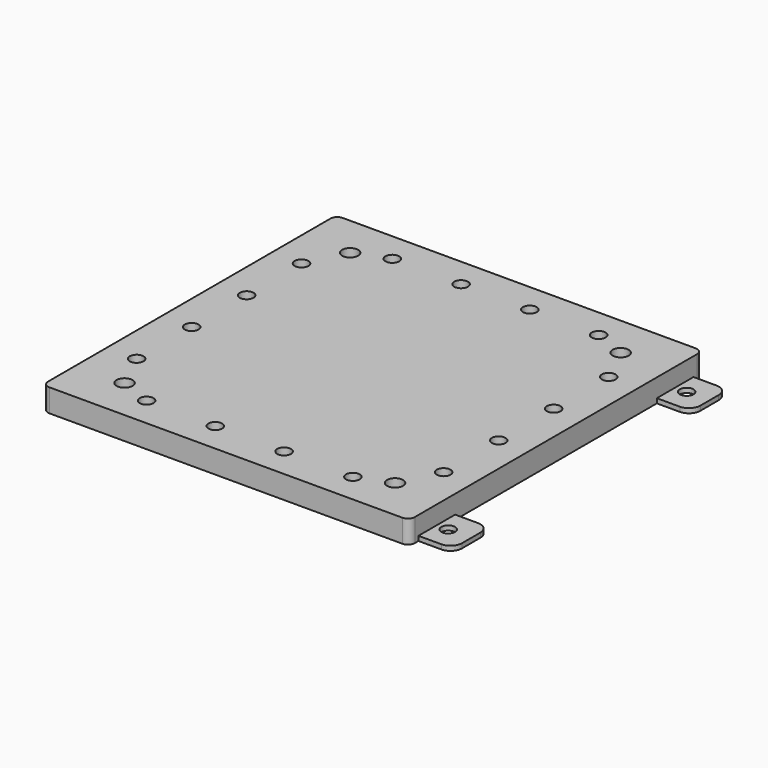
from build123d import *

# Parameters (mm, degrees)
F1_R     = 3.635317
F1_R_2   = 3
F1_R_3   = 3.701805
F1_R_4   = 3.098913
F1_R_5   = 3.218455
F2_DEPTH = 2
F0_R     = 3
F3_DEPTH = 2
F4_DEPTH = 2
F5_R     = 3.5
F5_R_2   = 3
F6_DEPTH = 10


with BuildPart() as f2:
    # F1 (on Top) → F2 (new body)
    with BuildSketch(Plane.XY):
        with BuildLine():
            Line((71.022595, 79.043965), (-58.977405, 79.043965))
            ThreePointArc((-58.977405, 79.043965), (-66.048473, 76.115033), (-68.977405, 69.043965))
            Line((-68.977405, 69.043965), (-68.977405, -60.956035))
            ThreePointArc((-68.977405, -60.956035), (-66.048473, -68.027103), (-58.977405, -70.956035))
            Line((-58.977405, -70.956035), (71.022595, -70.956035))
            ThreePointArc((71.022595, -70.956035), (78.093663, -68.027103), (81.022595, -60.956035))
            Line((81.022595, -60.956035), (81.022595, 69.043965))
            ThreePointArc((81.022595, 69.043965), (78.093663, 76.115033), (71.022595, 79.043965))
        make_face()
        with Locations((-38.977405, -62.956035)):
            Circle(F1_R, mode=Mode.SUBTRACT)
        with Locations((-60.722943, -40.956035)):
            Circle(F1_R_2, mode=Mode.SUBTRACT)
        with Locations((-8.977405, -62.956035)):
            Circle(F1_R_3, mode=Mode.SUBTRACT)
        with Locations((-60.940203, -10.956035)):
            Circle(F1_R_2, mode=Mode.SUBTRACT)
        with Locations((21.022595, -62.956035)):
            Circle(F1_R_4, mode=Mode.SUBTRACT)
        with Locations((51.022595, -62.956035)):
            Circle(F1_R_5, mode=Mode.SUBTRACT)
        with BuildLine():
            ThreePointArc((60.022595, -56.956035), (60.608381, -55.541822), (62.022595, -54.956035))
            Line((62.022595, -54.956035), (68.022595, -54.956035))
            ThreePointArc((68.022595, -54.956035), (69.436808, -55.541822), (70.022595, -56.956035))
            Line((70.022595, -56.956035), (70.022595, -57.956035))
            ThreePointArc((70.022595, -57.956035), (69.436808, -59.370249), (68.022595, -59.956035))
            Line((68.022595, -59.956035), (62.022595, -59.956035))
            ThreePointArc((62.022595, -59.956035), (60.608381, -59.370249), (60.022595, -57.956035))
            Line((60.022595, -57.956035), (60.022595, -56.956035))
        make_face(mode=Mode.SUBTRACT)
        with Locations((73.192246, -40.956035)):
            Circle(F1_R_2, mode=Mode.SUBTRACT)
        with Locations((73.022595, -10.956035)):
            Circle(F1_R_2, mode=Mode.SUBTRACT)
        with Locations((-60.940203, 19.043965)):
            Circle(F1_R_2, mode=Mode.SUBTRACT)
        with BuildLine():
            Line((55.022595, -54.956035), (-45.977405, -54.956035))
            ThreePointArc((-45.977405, -54.956035), (-47.391619, -55.541822), (-47.977405, -56.956035))
            Line((-47.977405, -56.956035), (-47.977405, -57.956035))
            ThreePointArc((-47.977405, -57.956035), (-48.563192, -59.370249), (-49.977405, -59.956035))
            Line((-49.977405, -59.956035), (-55.977405, -59.956035))
            ThreePointArc((-55.977405, -59.956035), (-57.391619, -59.370249), (-57.977405, -57.956035))
            Line((-57.977405, -57.956035), (-57.977405, -56.956035))
            ThreePointArc((-57.977405, -56.956035), (-57.391619, -55.541822), (-55.977405, -54.956035))
            Line((-55.977405, -54.956035), (-54.977405, -54.956035))
            ThreePointArc((-54.977405, -54.956035), (-53.563192, -54.370249), (-52.977405, -52.956035))
            Line((-52.977405, -52.956035), (-52.977405, 61.043965))
            ThreePointArc((-52.977405, 61.043965), (-53.563192, 62.458178), (-54.977405, 63.043965))
            Line((-54.977405, 63.043965), (-55.977405, 63.043965))
            ThreePointArc((-55.977405, 63.043965), (-57.391619, 63.629751), (-57.977405, 65.043965))
            Line((-57.977405, 65.043965), (-57.977405, 66.043965))
            ThreePointArc((-57.977405, 66.043965), (-57.391619, 67.458178), (-55.977405, 68.043965))
            Line((-55.977405, 68.043965), (-49.977405, 68.043965))
            ThreePointArc((-49.977405, 68.043965), (-48.563192, 67.458178), (-47.977405, 66.043965))
            Line((-47.977405, 66.043965), (-47.977405, 65.043965))
            ThreePointArc((-47.977405, 65.043965), (-47.391619, 63.629751), (-45.977405, 63.043965))
            Line((-45.977405, 63.043965), (55.022595, 63.043965))
            Line((55.022595, 63.043965), (55.022595, 60.043965))
            ThreePointArc((55.022595, 60.043965), (55.608381, 58.629751), (57.022595, 58.043965))
            Line((57.022595, 58.043965), (65.022595, 58.043965))
            Line((65.022595, 58.043965), (65.022595, -49.956035))
            Line((65.022595, -49.956035), (57.022595, -49.956035))
            ThreePointArc((57.022595, -49.956035), (55.608381, -50.541822), (55.022595, -51.956035))
            Line((55.022595, -51.956035), (55.022595, -54.956035))
        make_face(mode=Mode.SUBTRACT)
        with Locations((-60.940203, 49.043965)):
            Circle(F1_R_2, mode=Mode.SUBTRACT)
        with Locations((-38.977405, 71.058292)):
            Circle(F1_R_2, mode=Mode.SUBTRACT)
        with Locations((-8.977405, 71.058292)):
            Circle(F1_R_2, mode=Mode.SUBTRACT)
        with Locations((73.022595, 19.043965)):
            Circle(F1_R_2, mode=Mode.SUBTRACT)
        with Locations((21.022595, 71.058292)):
            Circle(F1_R_2, mode=Mode.SUBTRACT)
        with Locations((72.889298, 49.043965)):
            Circle(F1_R_2, mode=Mode.SUBTRACT)
        with Locations((51.022595, 71.058292)):
            Circle(F1_R_2, mode=Mode.SUBTRACT)
        with BuildLine():
            ThreePointArc((60.022595, 66.043965), (60.608381, 67.458178), (62.022595, 68.043965))
            Line((62.022595, 68.043965), (68.022595, 68.043965))
            ThreePointArc((68.022595, 68.043965), (69.436808, 67.458178), (70.022595, 66.043965))
            Line((70.022595, 66.043965), (70.022595, 65.043965))
            ThreePointArc((70.022595, 65.043965), (69.436808, 63.629751), (68.022595, 63.043965))
            Line((68.022595, 63.043965), (62.022595, 63.043965))
            ThreePointArc((62.022595, 63.043965), (60.608381, 63.629751), (60.022595, 65.043965))
            Line((60.022595, 65.043965), (60.022595, 66.043965))
        make_face(mode=Mode.SUBTRACT)
    extrude(amount=F2_DEPTH)


with BuildPart() as f3:
    # F0 (on Top) → F3 (new body)
    with BuildSketch(Plane.XY):
        with BuildLine():
            Line((81.022595, 81.043965), (-66.977405, 81.043965))
            ThreePointArc((-66.977405, 81.043965), (-68.391619, 80.458178), (-68.977405, 79.043965))
            Line((-68.977405, 79.043965), (-68.977405, -66.956035))
            ThreePointArc((-68.977405, -66.956035), (-68.391619, -68.370249), (-66.977405, -68.956035))
            Line((-66.977405, -68.956035), (81.022595, -68.956035))
            Line((81.022595, -68.956035), (81.022595, -48.956035))
            Line((81.022595, -48.956035), (81.022595, 61.043965))
            Line((81.022595, 61.043965), (81.022595, 81.043965))
        make_face()
        with BuildLine():
            ThreePointArc((-57.977405, -54.956035), (-57.391619, -53.541822), (-55.977405, -52.956035))
            Line((-55.977405, -52.956035), (-49.977405, -52.956035))
            ThreePointArc((-49.977405, -52.956035), (-48.563192, -53.541822), (-47.977405, -54.956035))
            Line((-47.977405, -54.956035), (-47.977405, -55.956035))
            ThreePointArc((-47.977405, -55.956035), (-48.563192, -57.370249), (-49.977405, -57.956035))
            Line((-49.977405, -57.956035), (-55.977405, -57.956035))
            ThreePointArc((-55.977405, -57.956035), (-57.391619, -57.370249), (-57.977405, -55.956035))
            Line((-57.977405, -55.956035), (-57.977405, -54.956035))
        make_face(mode=Mode.SUBTRACT)
        with Locations((-38.977405, -60.956035)):
            Circle(F0_R, mode=Mode.SUBTRACT)
        with Locations((-60.977405, -38.956035)):
            Circle(F0_R, mode=Mode.SUBTRACT)
        with Locations((-8.977405, -60.956035)):
            Circle(F0_R, mode=Mode.SUBTRACT)
        with Locations((-60.977405, -8.956035)):
            Circle(F0_R, mode=Mode.SUBTRACT)
        with Locations((21.022595, -60.956035)):
            Circle(F0_R, mode=Mode.SUBTRACT)
        with Locations((51.022595, -60.956035)):
            Circle(F0_R, mode=Mode.SUBTRACT)
        with BuildLine():
            ThreePointArc((60.022595, -54.956035), (60.608381, -53.541822), (62.022595, -52.956035))
            Line((62.022595, -52.956035), (68.022595, -52.956035))
            ThreePointArc((68.022595, -52.956035), (69.436808, -53.541822), (70.022595, -54.956035))
            Line((70.022595, -54.956035), (70.022595, -55.956035))
            ThreePointArc((70.022595, -55.956035), (69.436808, -57.370249), (68.022595, -57.956035))
            Line((68.022595, -57.956035), (62.022595, -57.956035))
            ThreePointArc((62.022595, -57.956035), (60.608381, -57.370249), (60.022595, -55.956035))
            Line((60.022595, -55.956035), (60.022595, -54.956035))
        make_face(mode=Mode.SUBTRACT)
        with Locations((73.022595, -38.956035)):
            Circle(F0_R, mode=Mode.SUBTRACT)
        with Locations((73.022595, -8.956035)):
            Circle(F0_R, mode=Mode.SUBTRACT)
        with Locations((-60.977405, 21.043965)):
            Circle(F0_R, mode=Mode.SUBTRACT)
        with Locations((-60.977405, 51.043965)):
            Circle(F0_R, mode=Mode.SUBTRACT)
        with BuildLine():
            ThreePointArc((-57.977405, 68.043965), (-57.391619, 69.458178), (-55.977405, 70.043965))
            Line((-55.977405, 70.043965), (-49.977405, 70.043965))
            ThreePointArc((-49.977405, 70.043965), (-48.563192, 69.458178), (-47.977405, 68.043965))
            Line((-47.977405, 68.043965), (-47.977405, 67.043965))
            ThreePointArc((-47.977405, 67.043965), (-48.563192, 65.629751), (-49.977405, 65.043965))
            Line((-49.977405, 65.043965), (-55.977405, 65.043965))
            ThreePointArc((-55.977405, 65.043965), (-57.391619, 65.629751), (-57.977405, 67.043965))
            Line((-57.977405, 67.043965), (-57.977405, 68.043965))
        make_face(mode=Mode.SUBTRACT)
        with Locations((-38.977405, 73.043965)):
            Circle(F0_R, mode=Mode.SUBTRACT)
        with Locations((-8.977405, 73.043965)):
            Circle(F0_R, mode=Mode.SUBTRACT)
        with Locations((73.022595, 21.043965)):
            Circle(F0_R, mode=Mode.SUBTRACT)
        with Locations((21.022595, 73.043965)):
            Circle(F0_R, mode=Mode.SUBTRACT)
        with Locations((51.022595, 73.043965)):
            Circle(F0_R, mode=Mode.SUBTRACT)
        with Locations((73.022595, 51.043965)):
            Circle(F0_R, mode=Mode.SUBTRACT)
        with BuildLine():
            ThreePointArc((60.022595, 68.043965), (60.608381, 69.458178), (62.022595, 70.043965))
            Line((62.022595, 70.043965), (68.022595, 70.043965))
            ThreePointArc((68.022595, 70.043965), (69.436808, 69.458178), (70.022595, 68.043965))
            Line((70.022595, 68.043965), (70.022595, 67.043965))
            ThreePointArc((70.022595, 67.043965), (69.436808, 65.629751), (68.022595, 65.043965))
            Line((68.022595, 65.043965), (62.022595, 65.043965))
            ThreePointArc((62.022595, 65.043965), (60.608381, 65.629751), (60.022595, 67.043965))
            Line((60.022595, 67.043965), (60.022595, 68.043965))
        make_face(mode=Mode.SUBTRACT)
        with BuildLine():
            Line((96.022595, 81.043965), (81.022595, 81.043965))
            Line((81.022595, 81.043965), (81.022595, 61.043965))
            Line((81.022595, 61.043965), (96.022595, 61.043965))
            ThreePointArc((96.022595, 61.043965), (99.558129, 62.508431), (101.022595, 66.043965))
            Line((101.022595, 66.043965), (101.022595, 76.043965))
            ThreePointArc((101.022595, 76.043965), (99.558129, 79.579499), (96.022595, 81.043965))
        make_face()
        with Locations((91.022595, 71.043965)):
            Circle(F0_R, mode=Mode.SUBTRACT)
        with BuildLine():
            Line((96.022595, -48.956035), (81.022595, -48.956035))
            Line((81.022595, -48.956035), (81.022595, -68.956035))
            Line((81.022595, -68.956035), (96.022595, -68.956035))
            ThreePointArc((96.022595, -68.956035), (99.558129, -67.491569), (101.022595, -63.956035))
            Line((101.022595, -63.956035), (101.022595, -53.956035))
            ThreePointArc((101.022595, -53.956035), (99.558129, -50.420501), (96.022595, -48.956035))
        make_face()
        with Locations((91.022595, -58.956035)):
            Circle(F0_R, mode=Mode.SUBTRACT)
    extrude(amount=F3_DEPTH)


with BuildPart() as f4:
    # F0 (on Top) → F4 (new body)
    with BuildSketch(Plane.XY):
        with BuildLine():
            Line((81.022595, 81.043965), (-66.977405, 81.043965))
            ThreePointArc((-66.977405, 81.043965), (-68.391619, 80.458178), (-68.977405, 79.043965))
            Line((-68.977405, 79.043965), (-68.977405, -66.956035))
            ThreePointArc((-68.977405, -66.956035), (-68.391619, -68.370249), (-66.977405, -68.956035))
            Line((-66.977405, -68.956035), (81.022595, -68.956035))
            Line((81.022595, -68.956035), (81.022595, -48.956035))
            Line((81.022595, -48.956035), (81.022595, 61.043965))
            Line((81.022595, 61.043965), (81.022595, 81.043965))
        make_face()
        with BuildLine():
            ThreePointArc((-57.977405, -54.956035), (-57.391619, -53.541822), (-55.977405, -52.956035))
            Line((-55.977405, -52.956035), (-49.977405, -52.956035))
            ThreePointArc((-49.977405, -52.956035), (-48.563192, -53.541822), (-47.977405, -54.956035))
            Line((-47.977405, -54.956035), (-47.977405, -55.956035))
            ThreePointArc((-47.977405, -55.956035), (-48.563192, -57.370249), (-49.977405, -57.956035))
            Line((-49.977405, -57.956035), (-55.977405, -57.956035))
            ThreePointArc((-55.977405, -57.956035), (-57.391619, -57.370249), (-57.977405, -55.956035))
            Line((-57.977405, -55.956035), (-57.977405, -54.956035))
        make_face(mode=Mode.SUBTRACT)
        with Locations((-38.977405, -60.956035)):
            Circle(F0_R, mode=Mode.SUBTRACT)
        with Locations((-60.977405, -38.956035)):
            Circle(F0_R, mode=Mode.SUBTRACT)
        with Locations((-8.977405, -60.956035)):
            Circle(F0_R, mode=Mode.SUBTRACT)
        with Locations((-60.977405, -8.956035)):
            Circle(F0_R, mode=Mode.SUBTRACT)
        with Locations((21.022595, -60.956035)):
            Circle(F0_R, mode=Mode.SUBTRACT)
        with Locations((51.022595, -60.956035)):
            Circle(F0_R, mode=Mode.SUBTRACT)
        with BuildLine():
            ThreePointArc((60.022595, -54.956035), (60.608381, -53.541822), (62.022595, -52.956035))
            Line((62.022595, -52.956035), (68.022595, -52.956035))
            ThreePointArc((68.022595, -52.956035), (69.436808, -53.541822), (70.022595, -54.956035))
            Line((70.022595, -54.956035), (70.022595, -55.956035))
            ThreePointArc((70.022595, -55.956035), (69.436808, -57.370249), (68.022595, -57.956035))
            Line((68.022595, -57.956035), (62.022595, -57.956035))
            ThreePointArc((62.022595, -57.956035), (60.608381, -57.370249), (60.022595, -55.956035))
            Line((60.022595, -55.956035), (60.022595, -54.956035))
        make_face(mode=Mode.SUBTRACT)
        with Locations((73.022595, -38.956035)):
            Circle(F0_R, mode=Mode.SUBTRACT)
        with Locations((73.022595, -8.956035)):
            Circle(F0_R, mode=Mode.SUBTRACT)
        with Locations((-60.977405, 21.043965)):
            Circle(F0_R, mode=Mode.SUBTRACT)
        with Locations((-60.977405, 51.043965)):
            Circle(F0_R, mode=Mode.SUBTRACT)
        with BuildLine():
            ThreePointArc((-57.977405, 68.043965), (-57.391619, 69.458178), (-55.977405, 70.043965))
            Line((-55.977405, 70.043965), (-49.977405, 70.043965))
            ThreePointArc((-49.977405, 70.043965), (-48.563192, 69.458178), (-47.977405, 68.043965))
            Line((-47.977405, 68.043965), (-47.977405, 67.043965))
            ThreePointArc((-47.977405, 67.043965), (-48.563192, 65.629751), (-49.977405, 65.043965))
            Line((-49.977405, 65.043965), (-55.977405, 65.043965))
            ThreePointArc((-55.977405, 65.043965), (-57.391619, 65.629751), (-57.977405, 67.043965))
            Line((-57.977405, 67.043965), (-57.977405, 68.043965))
        make_face(mode=Mode.SUBTRACT)
        with Locations((-38.977405, 73.043965)):
            Circle(F0_R, mode=Mode.SUBTRACT)
        with Locations((-8.977405, 73.043965)):
            Circle(F0_R, mode=Mode.SUBTRACT)
        with Locations((73.022595, 21.043965)):
            Circle(F0_R, mode=Mode.SUBTRACT)
        with Locations((21.022595, 73.043965)):
            Circle(F0_R, mode=Mode.SUBTRACT)
        with Locations((51.022595, 73.043965)):
            Circle(F0_R, mode=Mode.SUBTRACT)
        with Locations((73.022595, 51.043965)):
            Circle(F0_R, mode=Mode.SUBTRACT)
        with BuildLine():
            ThreePointArc((60.022595, 68.043965), (60.608381, 69.458178), (62.022595, 70.043965))
            Line((62.022595, 70.043965), (68.022595, 70.043965))
            ThreePointArc((68.022595, 70.043965), (69.436808, 69.458178), (70.022595, 68.043965))
            Line((70.022595, 68.043965), (70.022595, 67.043965))
            ThreePointArc((70.022595, 67.043965), (69.436808, 65.629751), (68.022595, 65.043965))
            Line((68.022595, 65.043965), (62.022595, 65.043965))
            ThreePointArc((62.022595, 65.043965), (60.608381, 65.629751), (60.022595, 67.043965))
            Line((60.022595, 67.043965), (60.022595, 68.043965))
        make_face(mode=Mode.SUBTRACT)
    extrude(amount=F4_DEPTH)


with BuildPart() as f6:
    # F5 (on Top) → F6 (new body)
    with BuildSketch(Plane.XY):
        with BuildLine():
            Line((83.022595, 86.043965), (-70.977405, 86.043965))
            ThreePointArc((-70.977405, 86.043965), (-73.098725, 85.165285), (-73.977405, 83.043965))
            Line((-73.977405, 83.043965), (-73.977405, -70.956035))
            ThreePointArc((-73.977405, -70.956035), (-73.098725, -73.077356), (-70.977405, -73.956035))
            Line((-70.977405, -73.956035), (83.022595, -73.956035))
            ThreePointArc((83.022595, -73.956035), (85.143915, -73.077356), (86.022595, -70.956035))
            Line((86.022595, -70.956035), (86.022595, 83.043965))
            ThreePointArc((86.022595, 83.043965), (85.143915, 85.165285), (83.022595, 86.043965))
        make_face()
        with Locations((-52.977405, -55.456035)):
            Circle(F5_R, mode=Mode.SUBTRACT)
        with Locations((-38.977405, -60.956035)):
            Circle(F5_R_2, mode=Mode.SUBTRACT)
        with Locations((-60.914513, -38.956035)):
            Circle(F5_R_2, mode=Mode.SUBTRACT)
        with Locations((-8.977405, -60.956035)):
            Circle(F5_R_2, mode=Mode.SUBTRACT)
        with Locations((-60.914513, -8.956035)):
            Circle(F5_R_2, mode=Mode.SUBTRACT)
        with Locations((21.022595, -60.956035)):
            Circle(F5_R_2, mode=Mode.SUBTRACT)
        with Locations((51.022595, -60.956035)):
            Circle(F5_R_2, mode=Mode.SUBTRACT)
        with Locations((65.022595, -55.456035)):
            Circle(F5_R, mode=Mode.SUBTRACT)
        with Locations((73.022595, -38.956035)):
            Circle(F5_R_2, mode=Mode.SUBTRACT)
        with Locations((73.022595, -8.956035)):
            Circle(F5_R_2, mode=Mode.SUBTRACT)
        with Locations((-60.914513, 21.043965)):
            Circle(F5_R_2, mode=Mode.SUBTRACT)
        with Locations((-60.977405, 51.043965)):
            Circle(F5_R_2, mode=Mode.SUBTRACT)
        with Locations((-52.977405, 67.543965)):
            Circle(F5_R, mode=Mode.SUBTRACT)
        with Locations((-38.977405, 73.043965)):
            Circle(F5_R_2, mode=Mode.SUBTRACT)
        with Locations((-8.977405, 73.043965)):
            Circle(F5_R_2, mode=Mode.SUBTRACT)
        with Locations((73.022595, 21.043965)):
            Circle(F5_R_2, mode=Mode.SUBTRACT)
        with Locations((21.022595, 73.043965)):
            Circle(F5_R_2, mode=Mode.SUBTRACT)
        with Locations((73.022595, 51.043965)):
            Circle(F5_R_2, mode=Mode.SUBTRACT)
        with Locations((51.022595, 73.043965)):
            Circle(F5_R_2, mode=Mode.SUBTRACT)
        with Locations((65.022595, 67.543965)):
            Circle(F5_R, mode=Mode.SUBTRACT)
    extrude(amount=F6_DEPTH)


solid = Compound([f2.part, f3.part, f4.part, f6.part])
